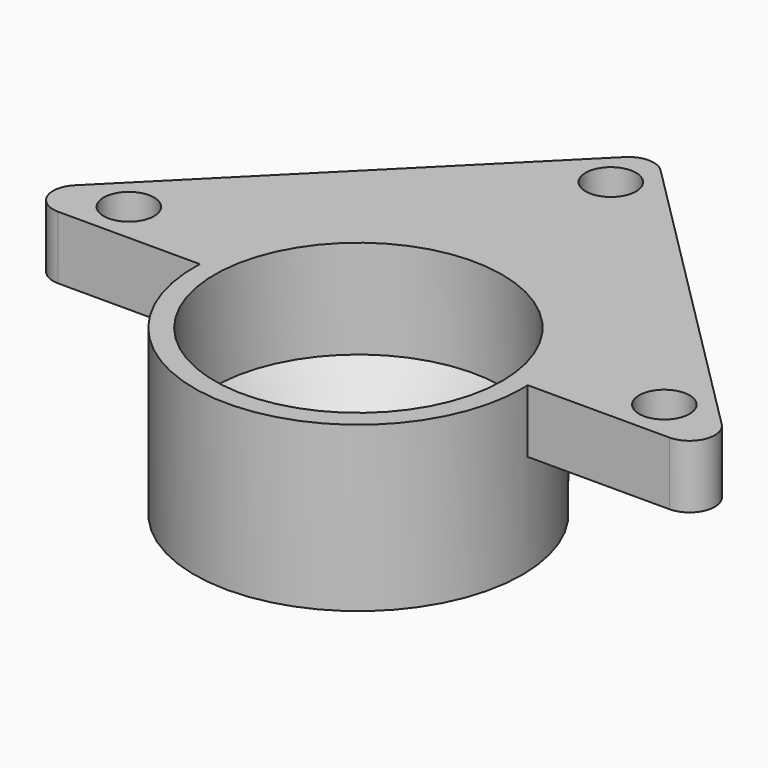
from build123d import *

# Parameters (mm, degrees)
SKETCH_R        = 2
PAD_DEPTH       = 5
SKETCH001_R     = 13
PAD001_DEPTH    = 8
SKETCH002_R     = 8
POCKET_DEPTH    = 16.001
SKETCH003_W     = 34.242641
SKETCH003_H     = 4
POCKET001_DEPTH = 48.644028
SKETCH004_R     = 11.4
POCKET002_DEPTH = 11
CHAMFER_SIZE    = 3.2


with BuildPart() as part:
    # Sketch → Pad (new body)
    with BuildSketch(Plane.XY):
        with BuildLine():
            Line((1.414214, 0), (49.84062, 0))
            ThreePointArc((49.84062, 0), (51.688379, 1.234633), (51.254834, 3.414214))
            Line((51.254834, 3.414214), (27.041631, 27.627417))
            ThreePointArc((27.041631, 27.627417), (25.627417, 28.213203), (24.213203, 27.627417))
            Line((0, 3.414214), (24.213203, 27.627417))
            ThreePointArc((0, 3.414214), (-0.433546, 1.234633), (1.414214, 0))
        make_face()
        with Locations((4.414214, 3.25)):
            Circle(SKETCH_R, mode=Mode.SUBTRACT)
        with Locations((46.84062, 3.25)):
            Circle(SKETCH_R, mode=Mode.SUBTRACT)
        with Locations((25.627417, 24.463203)):
            Circle(SKETCH_R, mode=Mode.SUBTRACT)
    extrude(amount=PAD_DEPTH)

    # Sketch001 (on Face10 of Pad) → Pad001 (join, symmetric)
    with BuildSketch(Plane(origin=(0, 0, 0), x_dir=(1, 0, 0), z_dir=(0, 0, -1))):
        with Locations((25.627417, 0.536797)):
            Circle(SKETCH001_R)
    extrude(amount=PAD001_DEPTH, both=True)

    # Sketch002 (on Face15 of Pad001) → Pocket (cut, through all)
    with BuildSketch(Plane(origin=(0, 0, -8), x_dir=(1, 0, 0), z_dir=(0, 0, -1))):
        with Locations((25.627417, 0.536797)):
            Circle(SKETCH002_R)
    extrude(amount=-POCKET_DEPTH, mode=Mode.SUBTRACT)

    # Sketch003 (on Face8 of Pocket) → Pocket001 (cut, through all)
    with BuildSketch(Plane(origin=(27.334524, 27.334524, 0), x_dir=(-0.707107, 0.707107, 0), z_dir=(0.707107, 0.707107, 0))):
        with Locations((-16.707106, 7)):
            Rectangle(SKETCH003_W, SKETCH003_H)
    extrude(amount=-POCKET001_DEPTH, mode=Mode.SUBTRACT)

    # Sketch004 (on Face6 of Pocket001) → Pocket002 (cut)
    with BuildSketch(Plane.XY.offset(5)):
        with Locations((25.627417, -0.536797)):
            Circle(SKETCH004_R)
    extrude(amount=-POCKET002_DEPTH, mode=Mode.SUBTRACT)

    # Chamfer
    chamfer_edges = [part.edges().sort_by_distance(p)[0] for p in [
        (14.227417, -0.536797, -6),
    ]]
    chamfer(chamfer_edges, length=CHAMFER_SIZE)


solid = part.part
